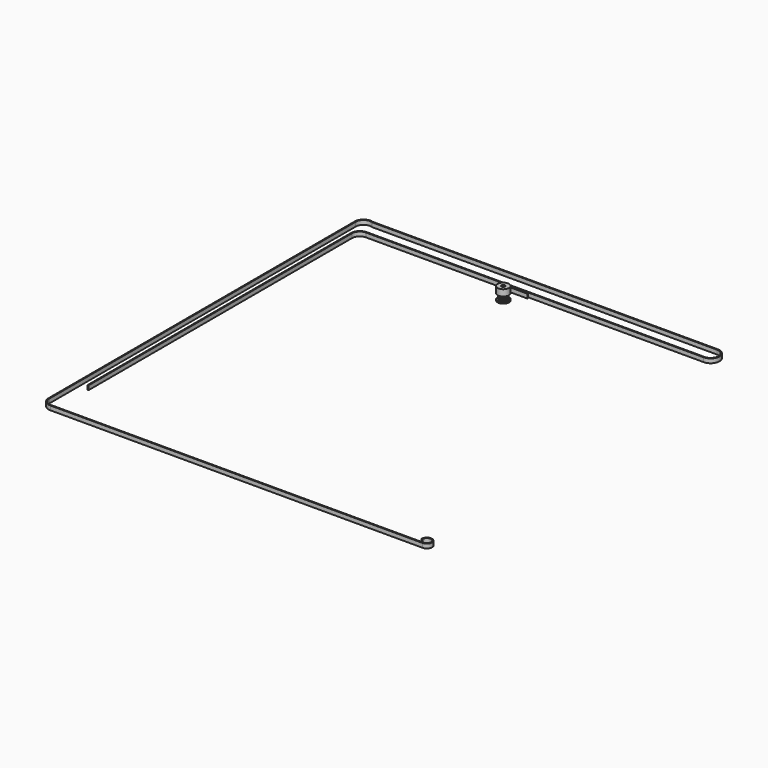
from build123d import *

# Parameters (mm, degrees)
F1_DEPTH  = 7.5
F2_R      = 8
F3_DEPTH  = 9
F4_R      = 8
F5_DEPTH  = 1.5
F6_R      = 2.5
F7_DEPTH  = 18.001
F8_R      = 1.5
F9_DEPTH  = 8.001
F10_R     = 1.5
F11_DEPTH = 8.0010001
F12_DEPTH = 6


with BuildPart() as f1:
    # F0 (on Top) → F1 (new body)
    with BuildSketch(Plane.XY):
        with BuildLine():
            ThreePointArc((-0.5137469529, -5.5950260293), (0, -5.25), (0.5137469529, -5.5950260293))
            ThreePointArc((0.5137469529, -5.5950260293), (0.5592692601, -5.7125893356), (0.5896381917, -5.8349459432))
            ThreePointArc((0.5896381917, -5.8349459432), (0.634011817, -5.9169199806), (0.718236871, -5.9568562008))
            ThreePointArc((0.718236871, -5.9568562008), (0.7555100891, -5.952243653), (0.7927537045, -5.9473978818))
            ThreePointArc((0.7927537045, -5.9473978818), (0.9386067902, -5.9261300436), (1.0838934413, -5.9012858775))
            ThreePointArc((1.0838934413, -5.9012858775), (1.1208116501, -5.8943855698), (1.1576859427, -5.8872543055))
            ThreePointArc((1.1576859427, -5.8872543055), (1.2254477584, -5.82324573), (1.2423182132, -5.7315715833))
            ThreePointArc((1.2423182132, -5.7315715833), (1.2333905124, -5.6058190183), (1.2403557397, -5.4799425032))
            ThreePointArc((1.2403557397, -5.4799425032), (1.6223392205, -4.9930467105), (2.2175605143, -5.1624294247))
            ThreePointArc((2.2175605143, -5.1624294247), (2.2971838607, -5.2601716067), (2.3638767022, -5.3671551397))
            ThreePointArc((2.3638767022, -5.3671551397), (2.4314098983, -5.4314048778), (2.5238536555, -5.4433595073))
            ThreePointArc((2.5238536555, -5.4433595073), (2.5578772368, -5.4274546558), (2.5918005942, -5.4113371434))
            ThreePointArc((2.5918005942, -5.4113371434), (2.7239429984, -5.3460391451), (2.8544415451, -5.2775148949))
            ThreePointArc((2.8544415451, -5.2775148949), (2.8874205358, -5.2595439583), (2.9202863902, -5.2413669399))
            ThreePointArc((2.9202863902, -5.2413669399), (2.964951969, -5.1595516144), (2.9526678557, -5.0671510626))
            ThreePointArc((2.9526678557, -5.0671510626), (2.905317428, -4.9503120775), (2.8730437705, -4.828444024))
            ThreePointArc((2.8730437705, -4.828444024), (3.0858725745, -4.2473392205), (3.7043038019, -4.2244982593))
            ThreePointArc((3.7043038019, -4.2244982593), (3.8102340997, -4.2928516312), (3.906722491, -4.373989796))
            ThreePointArc((3.906722491, -4.373989796), (3.9908046381, -4.4142260228), (4.0824180595, -4.3970288591))
            ThreePointArc((4.0824180595, -4.3970288591), (4.1098615388, -4.3713885816), (4.1371439837, -4.3455770225))
            ThreePointArc((4.1371439837, -4.3455770225), (4.2426406871, -4.2426406871), (4.3455770225, -4.1371439837))
            ThreePointArc((4.3455770225, -4.1371439837), (4.3713885816, -4.1098615388), (4.3970288591, -4.0824180595))
            ThreePointArc((4.3970288591, -4.0824180595), (4.4142260228, -3.9908046381), (4.373989796, -3.906722491))
            ThreePointArc((4.373989796, -3.906722491), (4.2928516312, -3.8102340997), (4.2244982593, -3.7043038019))
            ThreePointArc((4.2244982593, -3.7043038019), (4.2473392205, -3.0858725745), (4.828444024, -2.8730437705))
            ThreePointArc((4.828444024, -2.8730437705), (4.9503120775, -2.905317428), (5.0671510626, -2.9526678557))
            ThreePointArc((5.0671510626, -2.9526678557), (5.1595516144, -2.964951969), (5.2413669399, -2.9202863902))
            ThreePointArc((5.2413669399, -2.9202863902), (5.2595439583, -2.8874205358), (5.2775148949, -2.8544415451))
            ThreePointArc((5.2775148949, -2.8544415451), (5.3460391451, -2.7239429984), (5.4113371434, -2.5918005942))
            ThreePointArc((5.4113371434, -2.5918005942), (5.4432427829, -2.4673716464), (5.3671551397, -2.3638767022))
            ThreePointArc((5.3671551397, -2.3638767022), (5.2601716067, -2.2971838607), (5.1624294247, -2.2175605143))
            ThreePointArc((5.1624294247, -2.2175605143), (4.9930467105, -1.6223392205), (5.4799425032, -1.2403557397))
            ThreePointArc((5.4799425032, -1.2403557397), (5.6058190183, -1.2333905124), (5.7315715833, -1.2423182132))
            ThreePointArc((5.7315715833, -1.2423182132), (5.82324573, -1.2254477584), (5.8872543055, -1.1576859427))
            ThreePointArc((5.8872543055, -1.1576859427), (5.8943855698, -1.1208116501), (5.9012858775, -1.0838934413))
            ThreePointArc((5.9012858775, -1.0838934413), (5.9261300436, -0.9386067902), (5.9473978818, -0.7927537045))
            ThreePointArc((5.9473978818, -0.7927537045), (5.952243653, -0.7555100891), (5.9568562008, -0.718236871))
            ThreePointArc((5.9568562008, -0.718236871), (5.9169199806, -0.634011817), (5.8349459432, -0.5896381917))
            ThreePointArc((5.8349459432, -0.5896381917), (5.7125893356, -0.5592692601), (5.5950260293, -0.5137469529))
            ThreePointArc((5.5950260293, -0.5137469529), (5.25, 0), (5.5950260293, 0.5137469529))
            ThreePointArc((5.5950260293, 0.5137469529), (5.7125893356, 0.5592692601), (5.8349459432, 0.5896381917))
            ThreePointArc((5.8349459432, 0.5896381917), (5.9169199806, 0.634011817), (5.9568562008, 0.718236871))
            ThreePointArc((5.9568562008, 0.718236871), (5.952243653, 0.7555100891), (5.9473978818, 0.7927537045))
            ThreePointArc((5.9473978818, 0.7927537045), (5.9261300436, 0.9386067902), (5.9012858775, 1.0838934413))
            ThreePointArc((5.9012858775, 1.0838934413), (5.8943855698, 1.1208116501), (5.8872543055, 1.1576859427))
            ThreePointArc((5.8872543055, 1.1576859427), (5.82324573, 1.2254477584), (5.7315715833, 1.2423182132))
            ThreePointArc((5.7315715833, 1.2423182132), (5.6058190183, 1.2333905124), (5.4799425032, 1.2403557397))
            ThreePointArc((5.4799425032, 1.2403557397), (4.9930467105, 1.6223392205), (5.1624294247, 2.2175605143))
            ThreePointArc((5.1624294247, 2.2175605143), (5.2601716067, 2.2971838607), (5.3671551397, 2.3638767022))
            ThreePointArc((5.3671551397, 2.3638767022), (5.4314048778, 2.4314098983), (5.4433595073, 2.5238536555))
            ThreePointArc((5.4433595073, 2.5238536555), (5.4274546558, 2.5578772368), (5.4113371434, 2.5918005942))
            ThreePointArc((5.4113371434, 2.5918005942), (5.3460391451, 2.7239429984), (5.2775148949, 2.8544415451))
            ThreePointArc((5.2775148949, 2.8544415451), (5.2595439583, 2.8874205358), (5.2413669399, 2.9202863902))
            ThreePointArc((5.2413669399, 2.9202863902), (5.1595516144, 2.964951969), (5.0671510626, 2.9526678557))
            ThreePointArc((5.0671510626, 2.9526678557), (4.9503120775, 2.905317428), (4.828444024, 2.8730437705))
            ThreePointArc((4.828444024, 2.8730437705), (4.2473392205, 3.0858725745), (4.2244982593, 3.7043038019))
            ThreePointArc((4.2244982593, 3.7043038019), (4.2928516312, 3.8102340997), (4.373989796, 3.906722491))
            ThreePointArc((4.373989796, 3.906722491), (4.4142260228, 3.9908046381), (4.3970288591, 4.0824180595))
            ThreePointArc((4.3970288591, 4.0824180595), (4.3713885816, 4.1098615388), (4.3455770225, 4.1371439837))
            ThreePointArc((4.3455770225, 4.1371439837), (4.2426406871, 4.2426406871), (4.1371439837, 4.3455770225))
            ThreePointArc((4.1371439837, 4.3455770225), (4.1098615388, 4.3713885816), (4.0824180595, 4.3970288591))
            ThreePointArc((4.0824180595, 4.3970288591), (3.9908046381, 4.4142260228), (3.906722491, 4.373989796))
            ThreePointArc((3.906722491, 4.373989796), (3.8102340997, 4.2928516312), (3.7043038019, 4.2244982593))
            ThreePointArc((3.7043038019, 4.2244982593), (3.0858725745, 4.2473392205), (2.8730437705, 4.828444024))
            ThreePointArc((2.8730437705, 4.828444024), (2.905317428, 4.9503120775), (2.9526678557, 5.0671510626))
            ThreePointArc((2.9526678557, 5.0671510626), (2.964951969, 5.1595516144), (2.9202863902, 5.2413669399))
            ThreePointArc((2.9202863902, 5.2413669399), (2.8874205358, 5.2595439583), (2.8544415451, 5.2775148949))
            ThreePointArc((2.8544415451, 5.2775148949), (2.7239429984, 5.3460391451), (2.5918005942, 5.4113371434))
            ThreePointArc((2.5918005942, 5.4113371434), (2.5578772368, 5.4274546558), (2.5238536555, 5.4433595073))
            ThreePointArc((2.5238536555, 5.4433595073), (2.4314098983, 5.4314048778), (2.3638767022, 5.3671551397))
            ThreePointArc((2.3638767022, 5.3671551397), (2.2971838607, 5.2601716067), (2.2175605143, 5.1624294247))
            ThreePointArc((2.2175605143, 5.1624294247), (1.6223392205, 4.9930467105), (1.2403557397, 5.4799425032))
            ThreePointArc((1.2403557397, 5.4799425032), (1.2333905124, 5.6058190183), (1.2423182132, 5.7315715833))
            ThreePointArc((1.2423182132, 5.7315715833), (1.2254477584, 5.82324573), (1.1576859427, 5.8872543055))
            ThreePointArc((1.1576859427, 5.8872543055), (1.1208116501, 5.8943855698), (1.0838934413, 5.9012858775))
            ThreePointArc((1.0838934413, 5.9012858775), (0.9386067902, 5.9261300436), (0.7927537045, 5.9473978818))
            ThreePointArc((0.7927537045, 5.9473978818), (0.7555100891, 5.952243653), (0.718236871, 5.9568562008))
            ThreePointArc((0.718236871, 5.9568562008), (0.634011817, 5.9169199806), (0.5896381917, 5.8349459432))
            ThreePointArc((0.5896381917, 5.8349459432), (0.5592692601, 5.7125893356), (0.5137469529, 5.5950260293))
            ThreePointArc((0.5137469529, 5.5950260293), (0, 5.25), (-0.5137469529, 5.5950260293))
            ThreePointArc((-0.5137469529, 5.5950260293), (-0.5592692601, 5.7125893356), (-0.5896381917, 5.8349459432))
            ThreePointArc((-0.5896381917, 5.8349459432), (-0.634011817, 5.9169199806), (-0.718236871, 5.9568562008))
            ThreePointArc((-0.718236871, 5.9568562008), (-0.7555100891, 5.952243653), (-0.7927537045, 5.9473978818))
            ThreePointArc((-0.7927537045, 5.9473978818), (-0.9386067902, 5.9261300436), (-1.0838934413, 5.9012858775))
            ThreePointArc((-1.0838934413, 5.9012858775), (-1.1208116501, 5.8943855698), (-1.1576859427, 5.8872543055))
            ThreePointArc((-1.1576859427, 5.8872543055), (-1.2254477584, 5.82324573), (-1.2423182132, 5.7315715833))
            ThreePointArc((-1.2423182132, 5.7315715833), (-1.2333905124, 5.6058190183), (-1.2403557397, 5.4799425032))
            ThreePointArc((-1.2403557397, 5.4799425032), (-1.6223392205, 4.9930467105), (-2.2175605143, 5.1624294247))
            ThreePointArc((-2.2175605143, 5.1624294247), (-2.2971838607, 5.2601716067), (-2.3638767022, 5.3671551397))
            ThreePointArc((-2.3638767022, 5.3671551397), (-2.4314098983, 5.4314048778), (-2.5238536555, 5.4433595073))
            ThreePointArc((-2.5238536555, 5.4433595073), (-2.5578772368, 5.4274546558), (-2.5918005942, 5.4113371434))
            ThreePointArc((-2.5918005942, 5.4113371434), (-2.7239429984, 5.3460391451), (-2.8544415451, 5.2775148949))
            ThreePointArc((-2.8544415451, 5.2775148949), (-2.8874205358, 5.2595439583), (-2.9202863902, 5.2413669399))
            ThreePointArc((-2.9202863902, 5.2413669399), (-2.964951969, 5.1595516144), (-2.9526678557, 5.0671510626))
            ThreePointArc((-2.9526678557, 5.0671510626), (-2.905317428, 4.9503120775), (-2.8730437705, 4.828444024))
            ThreePointArc((-2.8730437705, 4.828444024), (-3.0858725745, 4.2473392205), (-3.7043038019, 4.2244982593))
            ThreePointArc((-3.7043038019, 4.2244982593), (-3.8102340997, 4.2928516312), (-3.906722491, 4.373989796))
            ThreePointArc((-3.906722491, 4.373989796), (-3.9908046381, 4.4142260228), (-4.0824180595, 4.3970288591))
            ThreePointArc((-4.0824180595, 4.3970288591), (-4.1098615388, 4.3713885816), (-4.1371439837, 4.3455770225))
            ThreePointArc((-4.1371439837, 4.3455770225), (-4.2426406871, 4.2426406871), (-4.3455770225, 4.1371439837))
            ThreePointArc((-4.3455770225, 4.1371439837), (-4.3713885816, 4.1098615388), (-4.3970288591, 4.0824180595))
            ThreePointArc((-4.3970288591, 4.0824180595), (-4.4142260228, 3.9908046381), (-4.373989796, 3.906722491))
            ThreePointArc((-4.373989796, 3.906722491), (-4.2928516312, 3.8102340997), (-4.2244982593, 3.7043038019))
            ThreePointArc((-4.2244982593, 3.7043038019), (-4.2473392205, 3.0858725745), (-4.828444024, 2.8730437705))
            ThreePointArc((-4.828444024, 2.8730437705), (-4.9503120775, 2.905317428), (-5.0671510626, 2.9526678557))
            ThreePointArc((-5.0671510626, 2.9526678557), (-5.1595516144, 2.964951969), (-5.2413669399, 2.9202863902))
            ThreePointArc((-5.2413669399, 2.9202863902), (-5.2595439583, 2.8874205358), (-5.2775148949, 2.8544415451))
            ThreePointArc((-5.2775148949, 2.8544415451), (-5.3460391451, 2.7239429984), (-5.4113371434, 2.5918005942))
            ThreePointArc((-5.4113371434, 2.5918005942), (-5.4274546558, 2.5578772368), (-5.4433595073, 2.5238536555))
            ThreePointArc((-5.4433595073, 2.5238536555), (-5.4314048778, 2.4314098983), (-5.3671551397, 2.3638767022))
            ThreePointArc((-5.3671551397, 2.3638767022), (-5.2601716067, 2.2971838607), (-5.1624294247, 2.2175605143))
            ThreePointArc((-5.1624294247, 2.2175605143), (-4.9930467105, 1.6223392205), (-5.4799425032, 1.2403557397))
            ThreePointArc((-5.4799425032, 1.2403557397), (-5.6058190183, 1.2333905124), (-5.7315715833, 1.2423182132))
            ThreePointArc((-5.7315715833, 1.2423182132), (-5.82324573, 1.2254477584), (-5.8872543055, 1.1576859427))
            ThreePointArc((-5.8872543055, 1.1576859427), (-5.8943855698, 1.1208116501), (-5.9012858775, 1.0838934413))
            ThreePointArc((-5.9012858775, 1.0838934413), (-5.9261300436, 0.9386067902), (-5.9473978818, 0.7927537045))
            ThreePointArc((-5.9473978818, 0.7927537045), (-5.952243653, 0.7555100891), (-5.9568562008, 0.718236871))
            ThreePointArc((-5.9568562008, 0.718236871), (-5.9169199806, 0.634011817), (-5.8349459432, 0.5896381917))
            ThreePointArc((-5.8349459432, 0.5896381917), (-5.7125893356, 0.5592692601), (-5.5950260293, 0.5137469529))
            ThreePointArc((-5.5950260293, 0.5137469529), (-5.25, 0), (-5.5950260293, -0.5137469529))
            ThreePointArc((-5.5950260293, -0.5137469529), (-5.7125893356, -0.5592692601), (-5.8349459432, -0.5896381917))
            ThreePointArc((-5.8349459432, -0.5896381917), (-5.9169199806, -0.634011817), (-5.9568562008, -0.718236871))
            ThreePointArc((-5.9568562008, -0.718236871), (-5.952243653, -0.7555100891), (-5.9473978818, -0.7927537045))
            ThreePointArc((-5.9473978818, -0.7927537045), (-5.9261300436, -0.9386067902), (-5.9012858775, -1.0838934413))
            ThreePointArc((-5.9012858775, -1.0838934413), (-5.8943855698, -1.1208116501), (-5.8872543055, -1.1576859427))
            ThreePointArc((-5.8872543055, -1.1576859427), (-5.82324573, -1.2254477584), (-5.7315715833, -1.2423182132))
            ThreePointArc((-5.7315715833, -1.2423182132), (-5.6058190183, -1.2333905124), (-5.4799425032, -1.2403557397))
            ThreePointArc((-5.4799425032, -1.2403557397), (-4.9930467105, -1.6223392205), (-5.1624294247, -2.2175605143))
            ThreePointArc((-5.1624294247, -2.2175605143), (-5.2601716067, -2.2971838607), (-5.3671551397, -2.3638767022))
            ThreePointArc((-5.3671551397, -2.3638767022), (-5.4314048778, -2.4314098983), (-5.4433595073, -2.5238536555))
            ThreePointArc((-5.4433595073, -2.5238536555), (-5.4274546558, -2.5578772368), (-5.4113371434, -2.5918005942))
            ThreePointArc((-5.4113371434, -2.5918005942), (-5.3460391451, -2.7239429984), (-5.2775148949, -2.8544415451))
            ThreePointArc((-5.2775148949, -2.8544415451), (-5.2595439583, -2.8874205358), (-5.2413669399, -2.9202863902))
            ThreePointArc((-5.2413669399, -2.9202863902), (-5.1595516144, -2.964951969), (-5.0671510626, -2.9526678557))
            ThreePointArc((-5.0671510626, -2.9526678557), (-4.9503120775, -2.905317428), (-4.828444024, -2.8730437705))
            ThreePointArc((-4.828444024, -2.8730437705), (-4.2473392205, -3.0858725745), (-4.2244982593, -3.7043038019))
            ThreePointArc((-4.2244982593, -3.7043038019), (-4.2928516312, -3.8102340997), (-4.373989796, -3.906722491))
            ThreePointArc((-4.373989796, -3.906722491), (-4.4142260228, -3.9908046381), (-4.3970288591, -4.0824180595))
            ThreePointArc((-4.3970288591, -4.0824180595), (-4.3713885816, -4.1098615388), (-4.3455770225, -4.1371439837))
            ThreePointArc((-4.3455770225, -4.1371439837), (-4.2426406871, -4.2426406871), (-4.1371439837, -4.3455770225))
            ThreePointArc((-4.1371439837, -4.3455770225), (-4.1098615388, -4.3713885816), (-4.0824180595, -4.3970288591))
            ThreePointArc((-4.0824180595, -4.3970288591), (-3.9908046381, -4.4142260228), (-3.906722491, -4.373989796))
            ThreePointArc((-3.906722491, -4.373989796), (-3.8102340997, -4.2928516312), (-3.7043038019, -4.2244982593))
            ThreePointArc((-3.7043038019, -4.2244982593), (-3.0858725745, -4.2473392205), (-2.8730437705, -4.828444024))
            ThreePointArc((-2.8730437705, -4.828444024), (-2.905317428, -4.9503120775), (-2.9526678557, -5.0671510626))
            ThreePointArc((-2.9526678557, -5.0671510626), (-2.964951969, -5.1595516144), (-2.9202863902, -5.2413669399))
            ThreePointArc((-2.9202863902, -5.2413669399), (-2.8874205358, -5.2595439583), (-2.8544415451, -5.2775148949))
            ThreePointArc((-2.8544415451, -5.2775148949), (-2.7239429984, -5.3460391451), (-2.5918005942, -5.4113371434))
            ThreePointArc((-2.5918005942, -5.4113371434), (-2.5578772368, -5.4274546558), (-2.5238536555, -5.4433595073))
            ThreePointArc((-2.5238536555, -5.4433595073), (-2.4314098983, -5.4314048778), (-2.3638767022, -5.3671551397))
            ThreePointArc((-2.3638767022, -5.3671551397), (-2.2971838607, -5.2601716067), (-2.2175605143, -5.1624294247))
            ThreePointArc((-2.2175605143, -5.1624294247), (-1.6223392205, -4.9930467105), (-1.2403557397, -5.4799425032))
            ThreePointArc((-1.2403557397, -5.4799425032), (-1.2333905124, -5.6058190183), (-1.2423182132, -5.7315715833))
            ThreePointArc((-1.2423182132, -5.7315715833), (-1.2254477584, -5.82324573), (-1.1576859427, -5.8872543055))
            ThreePointArc((-1.1576859427, -5.8872543055), (-1.1208116501, -5.8943855698), (-1.0838934413, -5.9012858775))
            ThreePointArc((-1.0838934413, -5.9012858775), (-0.9386067902, -5.9261300436), (-0.7927537045, -5.9473978818))
            ThreePointArc((-0.7927537045, -5.9473978818), (-0.7555100891, -5.952243653), (-0.718236871, -5.9568562008))
            ThreePointArc((-0.718236871, -5.9568562008), (-0.634011817, -5.9169199806), (-0.5896381917, -5.8349459432))
            ThreePointArc((-0.5896381917, -5.8349459432), (-0.5592692601, -5.7125893356), (-0.5137469529, -5.5950260293))
        make_face()
    extrude(amount=F1_DEPTH)

    # F2 (on face) → F3 (join)
    with BuildSketch(Plane.XY.offset(7.5)):
        Circle(F2_R)
    extrude(amount=F3_DEPTH)

    # F4 (on face) → F5 (join)
    with BuildSketch(Plane(origin=(0, 0, 0), x_dir=(1, 0, 0), z_dir=(0, 0, -1))):
        Circle(F4_R)
    extrude(amount=F5_DEPTH)

    # F6 (on face) → F7 (cut, through all)
    with BuildSketch(Plane(origin=(0, 0, -1.5), x_dir=(1, 0, 0), z_dir=(0, 0, -1))):
        Circle(F6_R)
    extrude(amount=-F7_DEPTH, mode=Mode.SUBTRACT)

    # F8 (on Right) → F9 (cut, through all)
    with BuildSketch(Plane.YZ):
        with Locations((0, 12)):
            Circle(F8_R)
    extrude(amount=-F9_DEPTH, mode=Mode.SUBTRACT)

    # F10 (on Front) → F11 (cut, through all)
    with BuildSketch(Plane.XZ):
        with Locations((0, 12)):
            Circle(F10_R)
    extrude(amount=-F11_DEPTH, mode=Mode.SUBTRACT)


with BuildPart() as f12:
    # F0 (on Top) → F12 (new body)
    with BuildSketch(Plane.XY):
        with BuildLine():
            Line((-18.1710498184, 18.4070537127), (-18.1710498184, 17.7770537127))
            Line((-18.1710498184, 17.7770537127), (19.8289501816, 17.7770537127))
            Line((19.8289501816, 17.7770537127), (19.8289501816, 18.4070537127))
            Line((19.8289501816, 18.4070537127), (19.5691256067, 18.4070537127))
            ThreePointArc((19.5691256067, 18.4070537127), (19.4702185357, 18.444282301), (19.420407073, 18.5374884953))
            ThreePointArc((19.420407073, 18.5374884953), (19.3865618959, 18.6951158667), (19.3278265861, 18.8452559599))
            ThreePointArc((19.3278265861, 18.8452559599), (19.1230995933, 19.0726927714), (18.8289501816, 19.1570537127))
            ThreePointArc((18.8289501816, 19.1570537127), (18.5348007699, 19.0726927714), (18.3300737771, 18.8452559599))
            ThreePointArc((18.3300737771, 18.8452559599), (18.2713384673, 18.6951158667), (18.2374932902, 18.5374884953))
            ThreePointArc((18.2374932902, 18.5374884953), (18.1876818275, 18.444282301), (18.0887747565, 18.4070537127))
            Line((18.0887747565, 18.4070537127), (17.8289501816, 18.4070537127))
            Line((17.8289501816, 18.4070537127), (17.5691256067, 18.4070537127))
            ThreePointArc((17.5691256067, 18.4070537127), (17.4702185357, 18.444282301), (17.420407073, 18.5374884953))
            ThreePointArc((17.420407073, 18.5374884953), (17.3865618959, 18.6951158667), (17.3278265861, 18.8452559599))
            ThreePointArc((17.3278265861, 18.8452559599), (17.1230995933, 19.0726927714), (16.8289501816, 19.1570537127))
            ThreePointArc((16.8289501816, 19.1570537127), (16.5348007699, 19.0726927714), (16.3300737771, 18.8452559599))
            ThreePointArc((16.3300737771, 18.8452559599), (16.2713384673, 18.6951158667), (16.2374932902, 18.5374884953))
            ThreePointArc((16.2374932902, 18.5374884953), (16.1876818275, 18.444282301), (16.0887747565, 18.4070537127))
            Line((16.0887747565, 18.4070537127), (15.8289501816, 18.4070537127))
            Line((15.8289501816, 18.4070537127), (15.5691256067, 18.4070537127))
            ThreePointArc((15.5691256067, 18.4070537127), (15.4702185357, 18.444282301), (15.420407073, 18.5374884953))
            ThreePointArc((15.420407073, 18.5374884953), (15.3865618959, 18.6951158667), (15.3278265861, 18.8452559599))
            ThreePointArc((15.3278265861, 18.8452559599), (15.1230995933, 19.0726927714), (14.8289501816, 19.1570537127))
            ThreePointArc((14.8289501816, 19.1570537127), (14.5348007699, 19.0726927714), (14.3300737771, 18.8452559599))
            ThreePointArc((14.3300737771, 18.8452559599), (14.2713384673, 18.6951158667), (14.2374932902, 18.5374884953))
            ThreePointArc((14.2374932902, 18.5374884953), (14.1876818275, 18.444282301), (14.0887747565, 18.4070537127))
            Line((14.0887747565, 18.4070537127), (13.8289501816, 18.4070537127))
            Line((13.8289501816, 18.4070537127), (13.5691256067, 18.4070537127))
            ThreePointArc((13.5691256067, 18.4070537127), (13.4702185357, 18.444282301), (13.420407073, 18.5374884953))
            ThreePointArc((13.420407073, 18.5374884953), (13.3865618959, 18.6951158667), (13.3278265861, 18.8452559599))
            ThreePointArc((13.3278265861, 18.8452559599), (13.1230995933, 19.0726927714), (12.8289501816, 19.1570537127))
            ThreePointArc((12.8289501816, 19.1570537127), (12.5348007699, 19.0726927714), (12.3300737771, 18.8452559599))
            ThreePointArc((12.3300737771, 18.8452559599), (12.2713384673, 18.6951158667), (12.2374932902, 18.5374884953))
            ThreePointArc((12.2374932902, 18.5374884953), (12.1876818275, 18.444282301), (12.0887747565, 18.4070537127))
            Line((12.0887747565, 18.4070537127), (11.8289501816, 18.4070537127))
            Line((11.8289501816, 18.4070537127), (11.5691256067, 18.4070537127))
            ThreePointArc((11.5691256067, 18.4070537127), (11.4702185357, 18.444282301), (11.420407073, 18.5374884953))
            ThreePointArc((11.420407073, 18.5374884953), (11.3865618959, 18.6951158667), (11.3278265861, 18.8452559599))
            ThreePointArc((11.3278265861, 18.8452559599), (11.1230995933, 19.0726927714), (10.8289501816, 19.1570537127))
            ThreePointArc((10.8289501816, 19.1570537127), (10.5348007699, 19.0726927714), (10.3300737771, 18.8452559599))
            ThreePointArc((10.3300737771, 18.8452559599), (10.2713384673, 18.6951158667), (10.2374932902, 18.5374884953))
            ThreePointArc((10.2374932902, 18.5374884953), (10.1876818275, 18.444282301), (10.0887747565, 18.4070537127))
            Line((10.0887747565, 18.4070537127), (9.8289501816, 18.4070537127))
            Line((9.8289501816, 18.4070537127), (9.5691256067, 18.4070537127))
            ThreePointArc((9.5691256067, 18.4070537127), (9.4702185357, 18.444282301), (9.420407073, 18.5374884953))
            ThreePointArc((9.420407073, 18.5374884953), (9.3865618959, 18.6951158667), (9.3278265861, 18.8452559599))
            ThreePointArc((9.3278265861, 18.8452559599), (9.1230995933, 19.0726927714), (8.8289501816, 19.1570537127))
            ThreePointArc((8.8289501816, 19.1570537127), (8.5348007699, 19.0726927714), (8.3300737771, 18.8452559599))
            ThreePointArc((8.3300737771, 18.8452559599), (8.2713384673, 18.6951158667), (8.2374932902, 18.5374884953))
            ThreePointArc((8.2374932902, 18.5374884953), (8.1876818275, 18.444282301), (8.0887747565, 18.4070537127))
            Line((8.0887747565, 18.4070537127), (7.8289501816, 18.4070537127))
            Line((7.8289501816, 18.4070537127), (7.5691256067, 18.4070537127))
            ThreePointArc((7.5691256067, 18.4070537127), (7.4702185357, 18.444282301), (7.420407073, 18.5374884953))
            ThreePointArc((7.420407073, 18.5374884953), (7.3865618959, 18.6951158667), (7.3278265861, 18.8452559599))
            ThreePointArc((7.3278265861, 18.8452559599), (7.1230995933, 19.0726927714), (6.8289501816, 19.1570537127))
            ThreePointArc((6.8289501816, 19.1570537127), (6.5348007699, 19.0726927714), (6.3300737771, 18.8452559599))
            ThreePointArc((6.3300737771, 18.8452559599), (6.2713384673, 18.6951158667), (6.2374932902, 18.5374884953))
            ThreePointArc((6.2374932902, 18.5374884953), (6.1876818275, 18.444282301), (6.0887747565, 18.4070537127))
            Line((6.0887747565, 18.4070537127), (5.8289501816, 18.4070537127))
            Line((5.8289501816, 18.4070537127), (5.5691256067, 18.4070537127))
            ThreePointArc((5.5691256067, 18.4070537127), (5.4702185357, 18.444282301), (5.420407073, 18.5374884953))
            ThreePointArc((5.420407073, 18.5374884953), (5.3865618959, 18.6951158667), (5.3278265861, 18.8452559599))
            ThreePointArc((5.3278265861, 18.8452559599), (5.1230995933, 19.0726927714), (4.8289501816, 19.1570537127))
            ThreePointArc((4.8289501816, 19.1570537127), (4.5348007699, 19.0726927714), (4.3300737771, 18.8452559599))
            ThreePointArc((4.3300737771, 18.8452559599), (4.2713384673, 18.6951158667), (4.2374932902, 18.5374884953))
            ThreePointArc((4.2374932902, 18.5374884953), (4.1876818275, 18.444282301), (4.0887747565, 18.4070537127))
            Line((4.0887747565, 18.4070537127), (3.8289501816, 18.4070537127))
            Line((3.8289501816, 18.4070537127), (3.5691256067, 18.4070537127))
            ThreePointArc((3.5691256067, 18.4070537127), (3.4702185357, 18.444282301), (3.420407073, 18.5374884953))
            ThreePointArc((3.420407073, 18.5374884953), (3.3865618959, 18.6951158667), (3.3278265861, 18.8452559599))
            ThreePointArc((3.3278265861, 18.8452559599), (3.1230995933, 19.0726927714), (2.8289501816, 19.1570537127))
            ThreePointArc((2.8289501816, 19.1570537127), (2.5348007699, 19.0726927714), (2.3300737771, 18.8452559599))
            ThreePointArc((2.3300737771, 18.8452559599), (2.2713384673, 18.6951158667), (2.2374932902, 18.5374884953))
            ThreePointArc((2.2374932902, 18.5374884953), (2.1876818275, 18.444282301), (2.0887747565, 18.4070537127))
            Line((2.0887747565, 18.4070537127), (1.8289501816, 18.4070537127))
            Line((1.8289501816, 18.4070537127), (1.5691256067, 18.4070537127))
            ThreePointArc((1.5691256067, 18.4070537127), (1.4702185357, 18.444282301), (1.420407073, 18.5374884953))
            ThreePointArc((1.420407073, 18.5374884953), (1.3865618959, 18.6951158667), (1.3278265861, 18.8452559599))
            ThreePointArc((1.3278265861, 18.8452559599), (1.1230995933, 19.0726927714), (0.8289501816, 19.1570537127))
            ThreePointArc((0.8289501816, 19.1570537127), (0.5348007699, 19.0726927714), (0.3300737771, 18.8452559599))
            ThreePointArc((0.3300737771, 18.8452559599), (0.2713384673, 18.6951158667), (0.2374932902, 18.5374884953))
            ThreePointArc((0.2374932902, 18.5374884953), (0.1876818275, 18.444282301), (0.0887747565, 18.4070537127))
            Line((0.0887747565, 18.4070537127), (-0.1710498184, 18.4070537127))
            Line((-0.1710498184, 18.4070537127), (-0.4308743933, 18.4070537127))
            ThreePointArc((-0.4308743933, 18.4070537127), (-0.5297814643, 18.444282301), (-0.579592927, 18.5374884953))
            ThreePointArc((-0.579592927, 18.5374884953), (-0.6134381041, 18.6951158667), (-0.6721734139, 18.8452559599))
            ThreePointArc((-0.6721734139, 18.8452559599), (-0.8769004067, 19.0726927714), (-1.1710498184, 19.1570537127))
            ThreePointArc((-1.1710498184, 19.1570537127), (-1.4651992301, 19.0726927714), (-1.6699262229, 18.8452559599))
            ThreePointArc((-1.6699262229, 18.8452559599), (-1.7286615327, 18.6951158667), (-1.7625067098, 18.5374884953))
            ThreePointArc((-1.7625067098, 18.5374884953), (-1.8123181725, 18.444282301), (-1.9112252435, 18.4070537127))
            Line((-1.9112252435, 18.4070537127), (-2.1710498184, 18.4070537127))
            Line((-2.1710498184, 18.4070537127), (-2.4308743933, 18.4070537127))
            ThreePointArc((-2.4308743933, 18.4070537127), (-2.5297814643, 18.444282301), (-2.579592927, 18.5374884953))
            ThreePointArc((-2.579592927, 18.5374884953), (-2.6134381041, 18.6951158667), (-2.6721734139, 18.8452559599))
            ThreePointArc((-2.6721734139, 18.8452559599), (-2.8769004067, 19.0726927714), (-3.1710498184, 19.1570537127))
            ThreePointArc((-3.1710498184, 19.1570537127), (-3.4651992301, 19.0726927714), (-3.6699262229, 18.8452559599))
            ThreePointArc((-3.6699262229, 18.8452559599), (-3.7286615327, 18.6951158667), (-3.7625067098, 18.5374884953))
            ThreePointArc((-3.7625067098, 18.5374884953), (-3.8123181725, 18.444282301), (-3.9112252435, 18.4070537127))
            Line((-3.9112252435, 18.4070537127), (-4.1710498184, 18.4070537127))
            Line((-4.1710498184, 18.4070537127), (-4.4308743933, 18.4070537127))
            ThreePointArc((-4.4308743933, 18.4070537127), (-4.5297814643, 18.444282301), (-4.579592927, 18.5374884953))
            ThreePointArc((-4.579592927, 18.5374884953), (-4.6134381041, 18.6951158667), (-4.6721734139, 18.8452559599))
            ThreePointArc((-4.6721734139, 18.8452559599), (-4.8769004067, 19.0726927714), (-5.1710498184, 19.1570537127))
            ThreePointArc((-5.1710498184, 19.1570537127), (-5.4651992301, 19.0726927714), (-5.6699262229, 18.8452559599))
            ThreePointArc((-5.6699262229, 18.8452559599), (-5.7286615327, 18.6951158667), (-5.7625067098, 18.5374884953))
            ThreePointArc((-5.7625067098, 18.5374884953), (-5.8123181725, 18.444282301), (-5.9112252435, 18.4070537127))
            Line((-5.9112252435, 18.4070537127), (-6.1710498184, 18.4070537127))
            Line((-6.1710498184, 18.4070537127), (-6.4308743933, 18.4070537127))
            ThreePointArc((-6.4308743933, 18.4070537127), (-6.5297814643, 18.444282301), (-6.579592927, 18.5374884953))
            ThreePointArc((-6.579592927, 18.5374884953), (-6.6134381041, 18.6951158667), (-6.6721734139, 18.8452559599))
            ThreePointArc((-6.6721734139, 18.8452559599), (-6.8769004067, 19.0726927714), (-7.1710498184, 19.1570537127))
            ThreePointArc((-7.1710498184, 19.1570537127), (-7.4651992301, 19.0726927714), (-7.6699262229, 18.8452559599))
            ThreePointArc((-7.6699262229, 18.8452559599), (-7.7286615327, 18.6951158667), (-7.7625067098, 18.5374884953))
            ThreePointArc((-7.7625067098, 18.5374884953), (-7.8123181725, 18.444282301), (-7.9112252435, 18.4070537127))
            Line((-7.9112252435, 18.4070537127), (-8.1710498184, 18.4070537127))
            Line((-8.1710498184, 18.4070537127), (-8.4308743933, 18.4070537127))
            ThreePointArc((-8.4308743933, 18.4070537127), (-8.5297814643, 18.444282301), (-8.579592927, 18.5374884953))
            ThreePointArc((-8.579592927, 18.5374884953), (-8.6134381041, 18.6951158667), (-8.6721734139, 18.8452559599))
            ThreePointArc((-8.6721734139, 18.8452559599), (-8.8769004067, 19.0726927714), (-9.1710498184, 19.1570537127))
            ThreePointArc((-9.1710498184, 19.1570537127), (-9.4651992301, 19.0726927714), (-9.6699262229, 18.8452559599))
            ThreePointArc((-9.6699262229, 18.8452559599), (-9.7286615327, 18.6951158667), (-9.7625067098, 18.5374884953))
            ThreePointArc((-9.7625067098, 18.5374884953), (-9.8123181725, 18.444282301), (-9.9112252435, 18.4070537127))
            Line((-9.9112252435, 18.4070537127), (-10.1710498184, 18.4070537127))
            Line((-10.1710498184, 18.4070537127), (-10.4308743933, 18.4070537127))
            ThreePointArc((-10.4308743933, 18.4070537127), (-10.5297814643, 18.444282301), (-10.579592927, 18.5374884953))
            ThreePointArc((-10.579592927, 18.5374884953), (-10.6134381041, 18.6951158667), (-10.6721734139, 18.8452559599))
            ThreePointArc((-10.6721734139, 18.8452559599), (-10.8769004067, 19.0726927714), (-11.1710498184, 19.1570537127))
            ThreePointArc((-11.1710498184, 19.1570537127), (-11.4651992301, 19.0726927714), (-11.6699262229, 18.8452559599))
            ThreePointArc((-11.6699262229, 18.8452559599), (-11.7286615327, 18.6951158667), (-11.7625067098, 18.5374884953))
            ThreePointArc((-11.7625067098, 18.5374884953), (-11.8123181725, 18.444282301), (-11.9112252435, 18.4070537127))
            Line((-11.9112252435, 18.4070537127), (-12.1710498184, 18.4070537127))
            Line((-12.1710498184, 18.4070537127), (-12.4308743933, 18.4070537127))
            ThreePointArc((-12.4308743933, 18.4070537127), (-12.5297814643, 18.444282301), (-12.579592927, 18.5374884953))
            ThreePointArc((-12.579592927, 18.5374884953), (-12.6134381041, 18.6951158667), (-12.6721734139, 18.8452559599))
            ThreePointArc((-12.6721734139, 18.8452559599), (-12.8769004067, 19.0726927714), (-13.1710498184, 19.1570537127))
            ThreePointArc((-13.1710498184, 19.1570537127), (-13.4651992301, 19.0726927714), (-13.6699262229, 18.8452559599))
            ThreePointArc((-13.6699262229, 18.8452559599), (-13.7286615327, 18.6951158667), (-13.7625067098, 18.5374884953))
            ThreePointArc((-13.7625067098, 18.5374884953), (-13.8123181725, 18.444282301), (-13.9112252435, 18.4070537127))
            Line((-13.9112252435, 18.4070537127), (-14.1710498184, 18.4070537127))
            Line((-14.1710498184, 18.4070537127), (-14.4308743933, 18.4070537127))
            ThreePointArc((-14.4308743933, 18.4070537127), (-14.5297814643, 18.444282301), (-14.579592927, 18.5374884953))
            ThreePointArc((-14.579592927, 18.5374884953), (-14.6134381041, 18.6951158667), (-14.6721734139, 18.8452559599))
            ThreePointArc((-14.6721734139, 18.8452559599), (-14.8769004067, 19.0726927714), (-15.1710498184, 19.1570537127))
            ThreePointArc((-15.1710498184, 19.1570537127), (-15.4651992301, 19.0726927714), (-15.6699262229, 18.8452559599))
            ThreePointArc((-15.6699262229, 18.8452559599), (-15.7286615327, 18.6951158667), (-15.7625067098, 18.5374884953))
            ThreePointArc((-15.7625067098, 18.5374884953), (-15.8123181725, 18.444282301), (-15.9112252435, 18.4070537127))
            Line((-15.9112252435, 18.4070537127), (-16.1710498184, 18.4070537127))
            Line((-16.1710498184, 18.4070537127), (-16.4308743933, 18.4070537127))
            ThreePointArc((-16.4308743933, 18.4070537127), (-16.5297814643, 18.444282301), (-16.579592927, 18.5374884953))
            ThreePointArc((-16.579592927, 18.5374884953), (-16.6134381041, 18.6951158667), (-16.6721734139, 18.8452559599))
            ThreePointArc((-16.6721734139, 18.8452559599), (-16.8769004067, 19.0726927714), (-17.1710498184, 19.1570537127))
            ThreePointArc((-17.1710498184, 19.1570537127), (-17.4651992301, 19.0726927714), (-17.6699262229, 18.8452559599))
            ThreePointArc((-17.6699262229, 18.8452559599), (-17.7286615327, 18.6951158667), (-17.7625067098, 18.5374884953))
            ThreePointArc((-17.7625067098, 18.5374884953), (-17.8123181725, 18.444282301), (-17.9112252435, 18.4070537127))
            Line((-17.9112252435, 18.4070537127), (-18.1710498184, 18.4070537127))
        make_face()
    extrude(amount=F12_DEPTH)


with BuildPart() as f12b:
    # F0 (on Top) → F12, piece 2 (new body)
    with BuildSketch(Plane.XY):
        with BuildLine():
            ThreePointArc((-221.4051710325, 9.5939300377), (-218.1833456255, 17.3721046307), (-210.4051710325, 20.5939300377))
            Line((-210.4051710325, 20.5939300377), (266.5948289675, 20.5939300377))
            ThreePointArc((266.5948289675, 20.5939300377), (278.974828967, 32.9739300372), (266.5948289675, 45.3539300367))
            Line((266.5948289675, 45.3539300367), (-220.4051710325, 45.3539300367))
            ThreePointArc((-220.4051710325, 45.3539300367), (-231.9124802497, 43.553067757), (-236.7851710324, 32.9739300366))
            Line((-236.7851710324, 32.9739300366), (-236.7851710324, -507.0260699634))
            ThreePointArc((-236.7851710324, -507.0260699634), (-233.1591529834, -515.7800519141), (-224.4051710324, -519.4060699629))
            Line((-224.4051710324, -519.4060699629), (291.5948289676, -519.4060699629))
            Line((291.5948289676, -519.4060699629), (301.5948289676, -519.4060699629))
            ThreePointArc((301.5948289676, -519.4060699629), (306.8132770127, -506.8076219177), (294.2148289675, -512.0260699629))
            Line((294.2148289675, -512.0260699629), (295.5948289675, -512.0260699629))
            ThreePointArc((295.5948289675, -512.0260699629), (305.8374696547, -507.7834292758), (301.5948289675, -518.0260699629))
            Line((301.5948289675, -518.0260699629), (291.5948289676, -518.0260699629))
            Line((291.5948289676, -518.0260699629), (-224.4051710324, -518.0260699629))
            ThreePointArc((-224.4051710324, -518.0260699629), (-232.1833456253, -514.8042445561), (-235.4051710324, -507.0260699634))
            Line((-235.4051710324, -507.0260699634), (-235.4051710324, 32.9739300367))
            ThreePointArc((-235.4051710324, 32.9739300367), (-230.9366962854, 42.6078281089), (-220.4051710325, 43.9739300367))
            Line((-220.4051710325, 43.9739300367), (266.5948289675, 43.9739300367))
            ThreePointArc((266.5948289675, 43.9739300372), (277.5948289675, 32.9739300372), (266.5948289675, 21.9739300372))
            Line((266.5948289675, 21.9739300377), (-210.4051710325, 21.9739300377))
            ThreePointArc((-210.4051710325, 21.9739300377), (-219.1591529836, 18.3479119888), (-222.7851710325, 9.5939300377))
            Line((-222.7851710325, 9.5939300377), (-222.7851710325, -455.6460699623))
            Line((-222.7851710325, -455.6460699623), (-221.4051710325, -455.6460699623))
            Line((-221.4051710325, -455.6460699623), (-221.4051710325, 9.5939300377))
        make_face()
    extrude(amount=F12_DEPTH)


solid = Compound([f1.part, f12.part, f12b.part])
